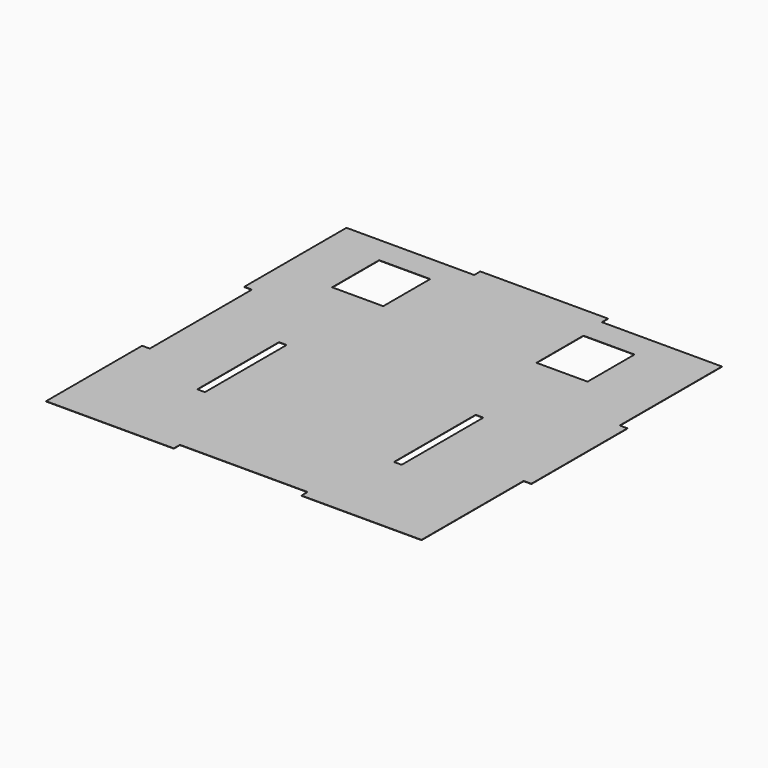
from build123d import *

# Parameters (mm, degrees)
F0_W     = 76.2
F0_H     = 1016
F0_W_2   = 508
F0_H_2   = 584.2
F1_DEPTH = 3


with BuildPart() as f1:
    # F0 (on Top) → F1 (new body)
    with BuildSketch(Plane.XY):
        Polygon((731.630458, 1828.8), (731.630458, 1905), (-538.369542, 1905), (-538.369542, 1828.8), (-1808.369542, 1828.8), (-1808.369542, 558.8), (-1732.169542, 558.8), (-1732.169542, -711.2), (-1808.369542, -711.2), (-1808.369542, -1905), (-538.369542, -1905), (-538.369542, -1828.8), (731.630458, -1828.8), (731.630458, -1905), (1925.430458, -1905), (1925.430458, -635), (2001.630458, -635), (2001.630458, 558.8), (1925.430458, 558.8), (1925.430458, 1828.8), align=None)
        with Locations((-977.9, -508)):
            Rectangle(F0_W, F0_H, mode=Mode.SUBTRACT)
        with Locations((977.9, -508)):
            Rectangle(F0_W, F0_H, mode=Mode.SUBTRACT)
        with Locations((-1016, 1270)):
            Rectangle(F0_W_2, F0_H_2, mode=Mode.SUBTRACT)
        with Locations((1016, 1270)):
            Rectangle(F0_W_2, F0_H_2, mode=Mode.SUBTRACT)
    extrude(amount=F1_DEPTH)


solid = f1.part
